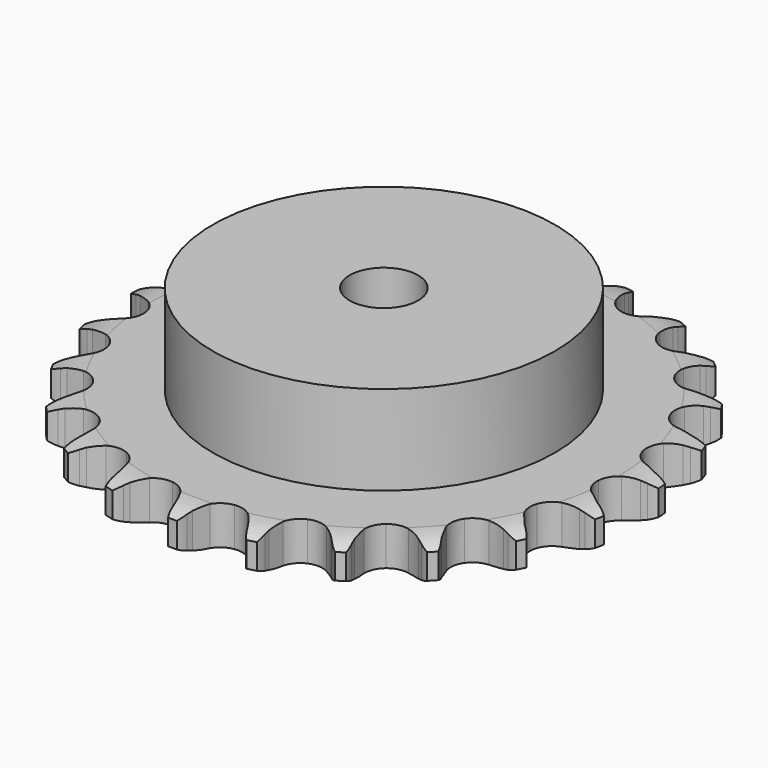
from build123d import *

# Parameters (mm, degrees)
PAD_DEPTH         = 9.1
SKETCH001_R       = 40
PAD001_DEPTH      = 30
SKETCH002_R       = 8
POCKET_DEPTH      = 0.001
POCKET_DEPTH_BACK = -30.001


with BuildPart() as part:
    # Sprocket → Pad (new body)
    with BuildSketch(Plane.XY):
        with BuildLine():
            ThreePointArc((-8.611223, 62.651298), (-7.296474, 61.202922), (-6.354928, 59.488323))
            Line((-6.354928, 59.488323), (-5.862367, 58.271851))
            ThreePointArc((-5.862367, 58.271851), (-5.074568, 56.651946), (-4.074665, 55.153641))
            ThreePointArc((-4.074665, 55.153641), (-2.270535, 53.67732), (0, 53.149041))
            ThreePointArc((0, 53.149041), (2.270535, 53.67732), (4.074665, 55.153641))
            ThreePointArc((4.074665, 55.153641), (5.074568, 56.651946), (5.862367, 58.271851))
            Line((5.862367, 58.271851), (6.354928, 59.488323))
            ThreePointArc((6.354928, 59.488323), (7.296474, 61.202922), (8.611223, 62.651298))
            ThreePointArc((8.611223, 62.651298), (9.486449, 60.901917), (9.930488, 58.996874))
            Line((9.930488, 58.996874), (10.076583, 57.69262))
            ThreePointArc((10.076583, 57.69262), (10.398123, 55.92024), (10.956708, 54.207726))
            ThreePointArc((10.956708, 54.207726), (12.29563, 52.299403), (14.33944, 51.178131))
            ThreePointArc((14.33944, 51.178131), (16.668305, 51.074237), (18.80384, 52.009063))
            Line((18.80384, 52.009063), (21.366532, 54.529325))
            ThreePointArc((21.366532, 54.529325), (21.754935, 55.058486), (22.169027, 55.567796))
            ThreePointArc((22.169027, 55.567796), (23.538252, 56.964786), (25.195013, 58.004738))
            ThreePointArc((25.195013, 58.004738), (25.565807, 56.084095), (25.479404, 54.129896))
            Line((25.479404, 54.129896), (25.268198, 52.834592))
            ThreePointArc((25.268198, 52.834592), (25.099633, 51.041185), (25.175473, 49.241472))
            ThreePointArc((25.175473, 49.241472), (25.949885, 47.042678), (27.615389, 45.411572))
            ThreePointArc((27.615389, 45.411572), (29.829863, 44.683211), (32.13842, 45.00721))
            Line((32.13842, 45.00721), (35.286038, 46.742608))
            ThreePointArc((35.286038, 46.742608), (35.802805, 47.147357), (36.338951, 47.526059))
            ThreePointArc((36.338951, 47.526059), (38.034305, 48.501833), (39.910205, 49.056232))
            ThreePointArc((39.910205, 49.056232), (39.749065, 47.106772), (39.13863, 45.248352))
            Line((39.13863, 45.248352), (38.585787, 44.058063))
            ThreePointArc((38.585787, 44.058063), (37.939617, 42.37664), (37.527089, 40.623203))
            ThreePointArc((37.527089, 40.623203), (37.679555, 38.297013), (38.843231, 36.277045))
            ThreePointArc((38.843231, 36.277045), (40.779077, 34.978235), (43.08944, 34.667379))
            Line((43.08944, 34.667379), (46.588541, 35.489206))
            ThreePointArc((46.588541, 35.489206), (47.195344, 35.739524), (47.813782, 35.959532))
            ThreePointArc((47.813782, 35.959532), (49.709528, 36.441721), (51.665439, 36.469449))
            ThreePointArc((51.665439, 36.469449), (50.984317, 34.635756), (49.895123, 33.010944))
            Line((49.895123, 33.010944), (49.041645, 32.01395))
            ThreePointArc((49.041645, 32.01395), (47.965794, 30.569213), (47.095492, 28.992097))
            ThreePointArc((47.095492, 28.992097), (46.614706, 26.711033), (47.190248, 24.452016))
            ThreePointArc((47.190248, 24.452016), (48.703893, 22.679084), (50.844714, 21.756427))
            Line((50.844714, 21.756427), (54.435785, 21.603732))
            ThreePointArc((54.435785, 21.603732), (55.087621, 21.681054), (55.742483, 21.726051))
            ThreePointArc((55.742483, 21.726051), (57.698022, 21.678893), (59.588884, 21.177895))
            ThreePointArc((59.588884, 21.177895), (58.438295, 19.595964), (56.951122, 18.325266))
            Line((56.951122, 18.325266), (55.860308, 17.595509))
            ThreePointArc((55.860308, 17.595509), (54.434567, 16.494607), (53.171037, 15.21078))
            ThreePointArc((53.171037, 15.21078), (52.092656, 13.144018), (52.03738, 10.813492))
            ThreePointArc((52.03738, 10.813492), (53.016564, 8.697929), (54.829068, 7.2319))
            Line((54.829068, 7.2319), (58.245776, 6.116008))
            ThreePointArc((58.245776, 6.116008), (58.894301, 6.014599), (59.537019, 5.881248))
            ThreePointArc((59.537019, 5.881248), (61.407318, 5.308241), (63.092894, 4.315672))
            ThreePointArc((63.092894, 4.315672), (61.558173, 3.102829), (59.783318, 2.280486))
            Line((59.783318, 2.280486), (58.536068, 1.872089))
            ThreePointArc((58.536068, 1.872089), (56.866178, 1.196672), (55.30313, 0.301349))
            ThreePointArc((55.30313, 0.301349), (53.707133, -1.397828), (53.025138, -3.627019))
            ThreePointArc((53.025138, -3.627019), (53.397239, -5.928312), (54.747, -7.828984))
            Line((54.747, -7.828984), (57.735944, -9.825312))
            ThreePointArc((57.735944, -9.825312), (58.33306, -10.09793), (58.915966, -10.39974))
            ThreePointArc((58.915966, -10.39974), (60.562315, -11.4561), (61.917593, -12.866624))
            ThreePointArc((61.917593, -12.866624), (60.112562, -13.620428), (58.181658, -13.933427))
            Line((58.181658, -13.933427), (56.870475, -13.990176))
            ThreePointArc((56.870475, -13.990176), (55.080284, -14.190015), (53.333643, -14.630432))
            ThreePointArc((53.333643, -14.630432), (51.338397, -15.836004), (50.080265, -17.79853))
            ThreePointArc((50.080265, -17.79853), (49.817686, -20.114877), (50.604598, -22.309228))
            Line((50.604598, -22.309228), (52.944101, -25.037934))
            ThreePointArc((52.944101, -25.037934), (53.445523, -25.461543), (53.925386, -25.909427))
            ThreePointArc((53.925386, -25.909427), (55.225681, -27.370793), (56.150147, -29.094661))
            ThreePointArc((56.150147, -29.094661), (54.208677, -29.333521), (52.264931, -29.113961))
            Line((52.264931, -29.113961), (50.987059, -28.814852))
            ThreePointArc((50.987059, -28.814852), (49.209337, -28.524293), (47.408644, -28.477141))
            ThreePointArc((47.408644, -28.477141), (45.162128, -29.099696), (43.421166, -30.650006))
            ThreePointArc((43.421166, -30.650006), (42.543382, -32.809613), (42.709085, -35.134899))
            Line((42.709085, -35.134899), (44.225636, -38.393607))
            ThreePointArc((44.225636, -38.393607), (44.594176, -38.936789), (44.935407, -39.49753))
            ThreePointArc((44.935407, -39.49753), (45.793211, -41.25552), (46.218302, -43.164881))
            ThreePointArc((46.218302, -43.164881), (44.284383, -42.87108), (42.471953, -42.135246))
            Line((42.471953, -42.135246), (41.322167, -41.502464))
            ThreePointArc((41.322167, -41.502464), (39.688759, -40.743055), (37.967562, -40.21183))
            ThreePointArc((37.967562, -40.21183), (35.63639, -40.205196), (33.541719, -41.228311))
            ThreePointArc((33.541719, -41.228311), (32.11383, -43.071011), (31.646034, -45.354774))
            Line((31.646034, -45.354774), (32.227158, -48.901802))
            ThreePointArc((32.227158, -48.901802), (32.435483, -49.524272), (32.612774, -50.156282))
            ThreePointArc((32.612774, -50.156282), (32.964469, -52.080514), (32.858656, -54.033758))
            ThreePointArc((32.858656, -54.033758), (31.075719, -53.229088), (29.529024, -52.031552))
            Line((29.529024, -52.031552), (28.592598, -51.112027))
            ThreePointArc((28.592598, -51.112027), (27.224648, -49.940092), (25.7106, -48.964192))
            ThreePointArc((25.7106, -48.964192), (23.467663, -48.328861), (21.174636, -48.748901))
            ThreePointArc((21.174636, -48.748901), (19.302542, -50.138029), (18.235942, -52.210894))
            Line((18.235942, -52.210894), (17.83854, -55.783173))
            ThreePointArc((17.83854, -55.783173), (17.871198, -56.438766), (17.871401, -57.095172))
            ThreePointArc((17.871401, -57.095172), (17.690902, -59.042935), (17.062035, -60.895199))
            ThreePointArc((17.062035, -60.895199), (15.562311, -59.639338), (14.396063, -58.068916))
            Line((14.396063, -58.068916), (13.742447, -56.930845))
            ThreePointArc((13.742447, -56.930845), (12.741408, -55.433299), (11.5468, -54.085104))
            ThreePointArc((11.5468, -54.085104), (9.558448, -52.868196), (7.237127, -52.654008))
            ThreePointArc((7.237127, -52.654008), (5.059674, -53.486538), (3.473373, -55.194771))
            Line((3.473373, -55.194771), (2.126918, -58.527362))
            ThreePointArc((2.126918, -58.527362), (1.981489, -59.167455), (1.804588, -59.799575))
            ThreePointArc((1.804588, -59.799575), (1.105282, -61.626411), (0, -63.240322))
            ThreePointArc((0, -63.240322), (-1.105282, -61.626411), (-1.804588, -59.799575))
            Line((-1.804588, -59.799575), (-2.126918, -58.527362))
            ThreePointArc((-2.126918, -58.527362), (-2.686803, -56.815273), (-3.473373, -55.194771))
            ThreePointArc((-3.473373, -55.194771), (-5.059674, -53.486538), (-7.237127, -52.654008))
            ThreePointArc((-7.237127, -52.654008), (-9.558448, -52.868196), (-11.5468, -54.085104))
            Line((-11.5468, -54.085104), (-13.742447, -56.930845))
            ThreePointArc((-13.742447, -56.930845), (-14.055179, -57.507965), (-14.396063, -58.068916))
            ThreePointArc((-14.396063, -58.068916), (-15.562311, -59.639338), (-17.062035, -60.895199))
            ThreePointArc((-17.062035, -60.895199), (-17.690902, -59.042935), (-17.871401, -57.095172))
            Line((-17.871401, -57.095172), (-17.83854, -55.783173))
            ThreePointArc((-17.83854, -55.783173), (-17.915746, -53.983518), (-18.235942, -52.210894))
            ThreePointArc((-18.235942, -52.210894), (-19.302542, -50.138029), (-21.174636, -48.748901))
            ThreePointArc((-21.174636, -48.748901), (-23.467663, -48.328861), (-25.7106, -48.964192))
            Line((-25.7106, -48.964192), (-28.592598, -51.112027))
            ThreePointArc((-28.592598, -51.112027), (-29.049438, -51.583372), (-29.529024, -52.031552))
            ThreePointArc((-29.529024, -52.031552), (-31.075719, -53.229088), (-32.858656, -54.033758))
            ThreePointArc((-32.858656, -54.033758), (-32.964469, -52.080514), (-32.612774, -50.156282))
            Line((-32.612774, -50.156282), (-32.227158, -48.901802))
            ThreePointArc((-32.227158, -48.901802), (-31.815961, -47.148052), (-31.646034, -45.354774))
            ThreePointArc((-31.646034, -45.354774), (-32.11383, -43.071011), (-33.541719, -41.228311))
            ThreePointArc((-33.541719, -41.228311), (-35.63639, -40.205196), (-37.967562, -40.21183))
            Line((-37.967562, -40.21183), (-41.322167, -41.502464))
            ThreePointArc((-41.322167, -41.502464), (-41.889233, -41.833076), (-42.471953, -42.135246))
            ThreePointArc((-42.471953, -42.135246), (-44.284383, -42.87108), (-46.218302, -43.164881))
            ThreePointArc((-46.218302, -43.164881), (-45.793211, -41.25552), (-44.935407, -39.49753))
            Line((-44.935407, -39.49753), (-44.225636, -38.393607))
            ThreePointArc((-44.225636, -38.393607), (-43.356531, -36.815831), (-42.709085, -35.134899))
            ThreePointArc((-42.709085, -35.134899), (-42.543382, -32.809613), (-43.421166, -30.650006))
            ThreePointArc((-43.421166, -30.650006), (-45.162128, -29.099696), (-47.408644, -28.477141))
            Line((-47.408644, -28.477141), (-50.987059, -28.814852))
            ThreePointArc((-50.987059, -28.814852), (-51.622295, -28.980212), (-52.264931, -29.113961))
            ThreePointArc((-52.264931, -29.113961), (-54.208677, -29.333521), (-56.150147, -29.094661))
            ThreePointArc((-56.150147, -29.094661), (-55.225681, -27.370793), (-53.925386, -25.909427))
            Line((-53.925386, -25.909427), (-52.944101, -25.037934))
            ThreePointArc((-52.944101, -25.037934), (-51.681545, -23.753148), (-50.604598, -22.309228))
            ThreePointArc((-50.604598, -22.309228), (-49.817686, -20.114877), (-50.080265, -17.79853))
            ThreePointArc((-50.080265, -17.79853), (-51.338397, -15.836004), (-53.333643, -14.630432))
            Line((-53.333643, -14.630432), (-56.870475, -13.990176))
            ThreePointArc((-56.870475, -13.990176), (-57.526768, -13.978019), (-58.181658, -13.933427))
            ThreePointArc((-58.181658, -13.933427), (-60.112562, -13.620428), (-61.917593, -12.866624))
            ThreePointArc((-61.917593, -12.866624), (-60.562315, -11.4561), (-58.915966, -10.39974))
            Line((-58.915966, -10.39974), (-57.735944, -9.825312))
            ThreePointArc((-57.735944, -9.825312), (-56.173576, -8.928803), (-54.747, -7.828984))
            ThreePointArc((-54.747, -7.828984), (-53.397239, -5.928312), (-53.025138, -3.627019))
            ThreePointArc((-53.025138, -3.627019), (-53.707133, -1.397828), (-55.30313, 0.301349))
            Line((-55.30313, 0.301349), (-58.536068, 1.872089))
            ThreePointArc((-58.536068, 1.872089), (-59.164744, 2.06086), (-59.783318, 2.280486))
            ThreePointArc((-59.783318, 2.280486), (-61.558173, 3.102829), (-63.092894, 4.315672))
            ThreePointArc((-63.092894, 4.315672), (-61.407318, 5.308241), (-59.537019, 5.881248))
            Line((-59.537019, 5.881248), (-58.245776, 6.116008))
            ThreePointArc((-58.245776, 6.116008), (-56.49947, 6.557751), (-54.829068, 7.2319))
            ThreePointArc((-54.829068, 7.2319), (-53.016564, 8.697929), (-52.03738, 10.813492))
            ThreePointArc((-52.03738, 10.813492), (-52.092656, 13.144018), (-53.171037, 15.21078))
            Line((-53.171037, 15.21078), (-55.860308, 17.595509))
            ThreePointArc((-55.860308, 17.595509), (-56.414741, 17.946895), (-56.951122, 18.325266))
            ThreePointArc((-56.951122, 18.325266), (-58.438295, 19.595964), (-59.588884, 21.177895))
            ThreePointArc((-59.588884, 21.177895), (-57.698022, 21.678893), (-55.742483, 21.726051))
            Line((-55.742483, 21.726051), (-54.435785, 21.603732))
            ThreePointArc((-54.435785, 21.603732), (-52.635056, 21.557946), (-50.844714, 21.756427))
            ThreePointArc((-50.844714, 21.756427), (-48.703893, 22.679084), (-47.190248, 24.452016))
            ThreePointArc((-47.190248, 24.452016), (-46.614706, 26.711033), (-47.095492, 28.992097))
            Line((-47.095492, 28.992097), (-49.041645, 32.01395))
            ThreePointArc((-49.041645, 32.01395), (-49.480715, 32.501891), (-49.895123, 33.010944))
            ThreePointArc((-49.895123, 33.010944), (-50.984317, 34.635756), (-51.665439, 36.469449))
            ThreePointArc((-51.665439, 36.469449), (-49.709528, 36.441721), (-47.813782, 35.959532))
            Line((-47.813782, 35.959532), (-46.588541, 35.489206))
            ThreePointArc((-46.588541, 35.489206), (-44.866941, 34.959287), (-43.08944, 34.667379))
            ThreePointArc((-43.08944, 34.667379), (-40.779077, 34.978235), (-38.843231, 36.277045))
            ThreePointArc((-38.843231, 36.277045), (-37.679555, 38.297013), (-37.527089, 40.623203))
            Line((-37.527089, 40.623203), (-38.585787, 44.058063))
            ThreePointArc((-38.585787, 44.058063), (-38.876931, 44.64637), (-39.13863, 45.248352))
            ThreePointArc((-39.13863, 45.248352), (-39.749065, 47.106772), (-39.910205, 49.056232))
            ThreePointArc((-39.910205, 49.056232), (-38.034305, 48.501833), (-36.338951, 47.526059))
            Line((-36.338951, 47.526059), (-35.286038, 46.742608))
            ThreePointArc((-35.286038, 46.742608), (-33.771251, 45.767858), (-32.13842, 45.00721))
            ThreePointArc((-32.13842, 45.00721), (-29.829863, 44.683211), (-27.615389, 45.411572))
            ThreePointArc((-27.615389, 45.411572), (-25.949885, 47.042678), (-25.175473, 49.241472))
            Line((-25.175473, 49.241472), (-25.268198, 52.834592))
            ThreePointArc((-25.268198, 52.834592), (-25.389823, 53.479631), (-25.479404, 54.129896))
            ThreePointArc((-25.479404, 54.129896), (-25.565807, 56.084095), (-25.195013, 58.004738))
            ThreePointArc((-25.195013, 58.004738), (-23.538252, 56.964786), (-22.169027, 55.567796))
            Line((-22.169027, 55.567796), (-21.366532, 54.529325))
            ThreePointArc((-21.366532, 54.529325), (-20.170901, 53.182036), (-18.80384, 52.009063))
            ThreePointArc((-18.80384, 52.009063), (-16.668305, 51.074237), (-14.33944, 51.178131))
            ThreePointArc((-14.33944, 51.178131), (-12.29563, 52.299403), (-10.956708, 54.207726))
            Line((-10.956708, 54.207726), (-10.076583, 57.69262))
            ThreePointArc((-10.076583, 57.69262), (-10.019667, 58.346554), (-9.930488, 58.996874))
            ThreePointArc((-9.930488, 58.996874), (-9.486449, 60.901917), (-8.611223, 62.651298))
        make_face()
    extrude(amount=PAD_DEPTH)

    # Sketch → Groove (revolve, cut)
    with BuildSketch(Plane.XZ):
        with BuildLine():
            Line((54.775762, 0), (61.75, 0))
            Line((68.724238, 0), (61.75, 0))
            Line((68.724238, 9.1), (68.724238, 0))
            Line((61.75, 9.1), (68.724238, 9.1))
            Line((54.775762, 9.1), (61.75, 9.1))
            ThreePointArc((61.75, 7.5), (58.35347, 8.694871), (54.775762, 9.1))
            Line((61.75, 1.6), (61.75, 7.5))
            ThreePointArc((54.775762, 0), (58.35347, 0.405129), (61.75, 1.6))
        make_face()
    revolve(axis=Axis((0, 0, 0), (0, 0, 1)), mode=Mode.SUBTRACT)

    # Sketch001 → Pad001 (join)
    with BuildSketch(Plane.XY):
        Circle(SKETCH001_R)
    extrude(amount=PAD001_DEPTH)

    # Sketch002 → Pocket (cut, two sides)
    with BuildSketch(Plane.XY) as pocket_sk:
        Circle(SKETCH002_R)
    extrude(amount=-POCKET_DEPTH, mode=Mode.SUBTRACT)
    extrude(pocket_sk.sketch, amount=-POCKET_DEPTH_BACK, mode=Mode.SUBTRACT)


solid = part.part
